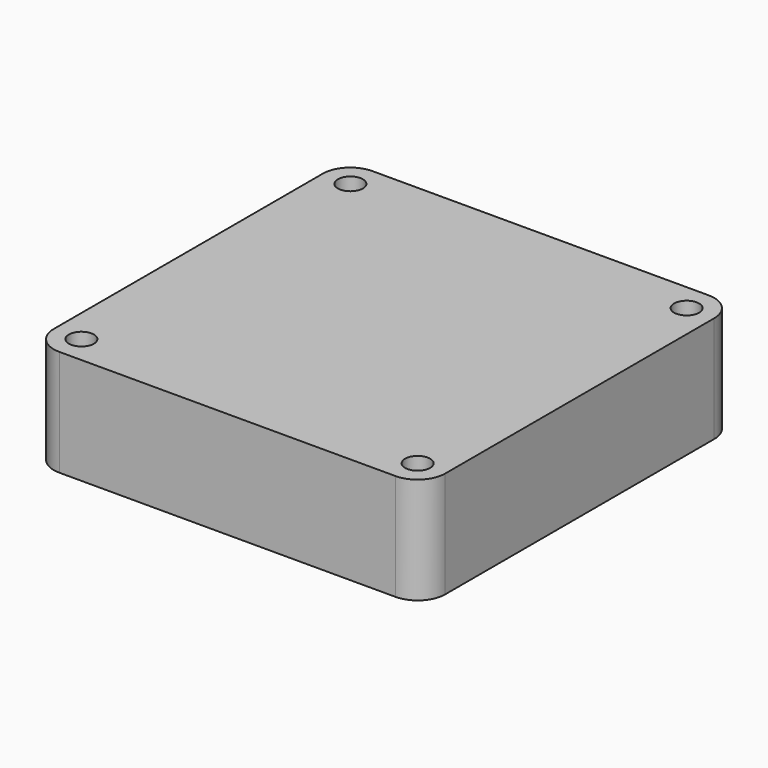
from build123d import *

# Parameters (mm, degrees)
F0_W     = 43
F0_H     = 43
F0_R     = 1.375
F1_DEPTH = 11.684
F2_R     = 3.034208


with BuildPart() as f1:
    # F0 (on Top) → F1 (new body)
    with BuildSketch(Plane.XY):
        Rectangle(F0_W, F0_H)
        with Locations((-18.4658, -18.4658)):
            Circle(F0_R, mode=Mode.SUBTRACT)
        with Locations((18.4658, -18.4658)):
            Circle(F0_R, mode=Mode.SUBTRACT)
        with Locations((-18.4658, 18.4658)):
            Circle(F0_R, mode=Mode.SUBTRACT)
        with Locations((18.4658, 18.4658)):
            Circle(F0_R, mode=Mode.SUBTRACT)
    extrude(amount=F1_DEPTH)

    # F2
    f2_edges = [f1.edges().sort_by_distance(p)[0] for p in [
        (-21.5, -21.5, 5.842),
        (21.5, -21.5, 5.842),
        (21.5, 21.5, 5.842),
        (-21.5, 21.5, 5.842),
    ]]
    fillet(f2_edges, radius=F2_R)


solid = f1.part
